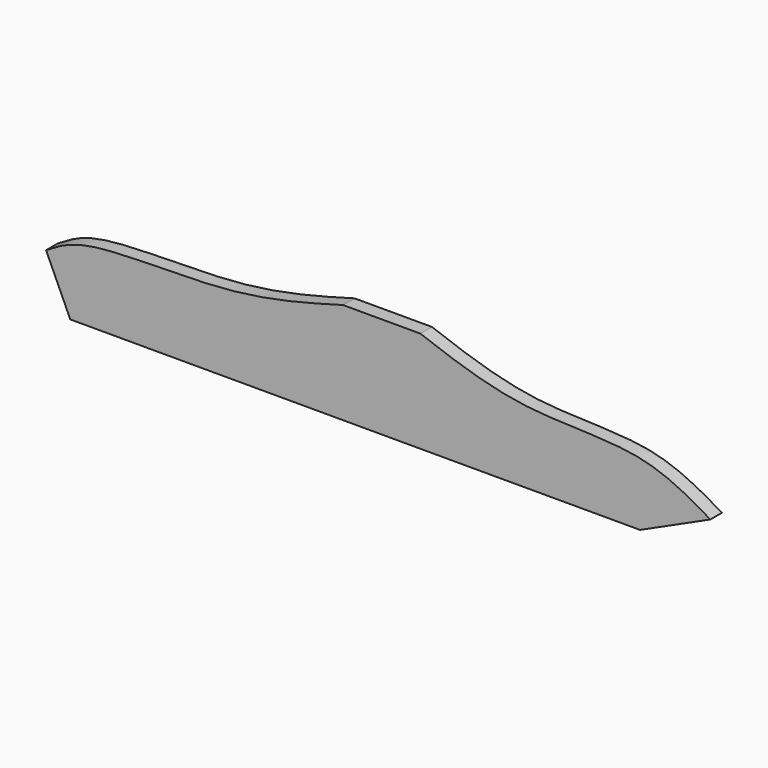
from build123d import *

# Parameters (mm, degrees)
F1_DEPTH = 19.05


with BuildPart() as f1:
    # F0 (on Front) → F1 (new body)
    with BuildSketch(Plane.XZ):
        with BuildLine():
            Line((-785.2747082114, 37.452469027), (-753.4422292625, -32.397530973))
            Line((-753.4422292625, -32.397530973), (-4.1422292625, -32.397530973))
            Line((-4.1422292625, -32.397530973), (88.3098358586, 9.7353024809))
            add(Edge.make_bspline(
                [(-293.1497082114, 100.952469027), (-249.3861376506, 84.8768374866), (-158.3679193405, 52.1954424277), (-2.6899127054, 63.192044415), (60.2584676484, 26.451100898), (88.3098358586, 9.7353024809)],
                knots=[0, 0, 0, 0, 0.3489063291, 0.7071352332, 1, 1, 1, 1], degree=3))
            Line((-293.1497082114, 100.952469027), (-394.7497082114, 100.952469027))
            add(Edge.make_bspline(
                [(-785.2747082114, 37.452469027), (-771.1525683757, 46.2814984453), (-731.7475471229, 70.9171482769), (-542.750116505, 59.7205416368), (-442.8870811461, 87.5417177428), (-394.7497082114, 100.952469027)],
                knots=[0, 0, 0, 0, 0.2243960672, 0.6261325762, 1, 1, 1, 1], degree=3))
        make_face()
    extrude(amount=F1_DEPTH)


solid = f1.part
